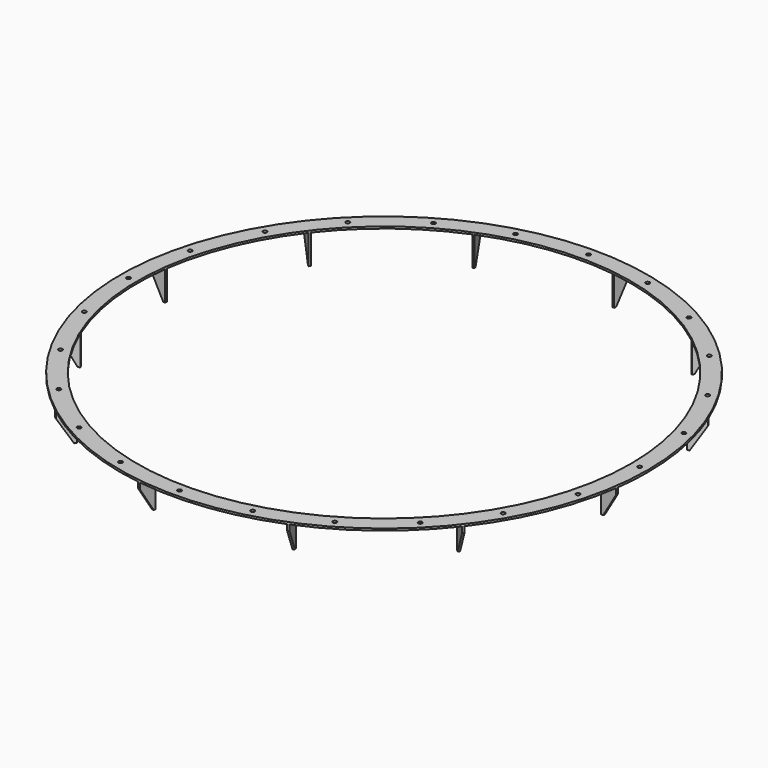
from build123d import *

# Parameters (mm, degrees)
F0_R     = 1342.5
F0_R_2   = 1256.5
F1_DEPTH = 10
F3_D     = 20
F5_DEPTH = 150
F6_SIZE2 = 74.9843222291
F6_SIZE  = 120
F7_COUNT = 12


with BuildPart() as f1:
    # F0 (on Top) → F1 (new body)
    with BuildSketch(Plane.XY):
        Circle(F0_R)
        Circle(F0_R_2, mode=Mode.SUBTRACT)
    extrude(amount=F1_DEPTH)

    # F3 (through all)
    with Locations(Plane.XY.offset(10)):
        with Locations((0, 1300), (-336.4647586333, 1255.7035741758), (-650, 1125.8330249198), (-919.2388155425, 919.2388155425), (-1125.8330249198, 650), (336.4647586333, 1255.7035741758), (650, 1125.8330249198), (919.2388155425, 919.2388155425), (1125.8330249198, 650), (1255.7035741758, 336.4647586333), (1300, 0), (1255.7035741758, -336.4647586333), (1125.8330249198, -650), (919.2388155425, -919.2388155425), (650, -1125.8330249198), (336.4647586333, -1255.7035741758), (0, -1300), (-336.4647586333, -1255.7035741758), (-650, -1125.8330249198), (-919.2388155425, -919.2388155425), (-1125.8330249198, -650), (-1255.7035741758, -336.4647586333), (-1300, 0), (-1255.7035741758, 336.4647586333)):
            Hole(F3_D / 2)

    # F4 (on face) → F5 (join)
    with BuildSketch(Plane(origin=(0, 0, 0), x_dir=(1, 0, 0), z_dir=(0, 0, -1))):
        Polygon((176.9372073515, -1330.8266132952), (186.8398880389, -1329.4348822856), (174.8654631428, -1244.2324219373), (164.9627824554, -1245.6241529469), align=None)
    extrude(amount=F5_DEPTH)

    # F6
    f6_edges = [f1.edges().sort_by_distance(p)[0] for p in [
        (181.888548, 1330.130748, -150),
    ]]
    f6_side = f1.faces().sort_by_distance((181.888548, 1330.130748, -75))[0]
    chamfer(f6_edges, length=F6_SIZE, length2=F6_SIZE2, reference=f6_side)

    # F7: F1 ×12 about axis
    f7_axis = Axis((0, 0, 10), (0, 0, 1))


with BuildPart() as f1_1:
    add(f1.part)
    for i in range(1, F7_COUNT):
        add(f1.part.rotate(f7_axis, i * 360 / F7_COUNT))


solid = f1_1.part
